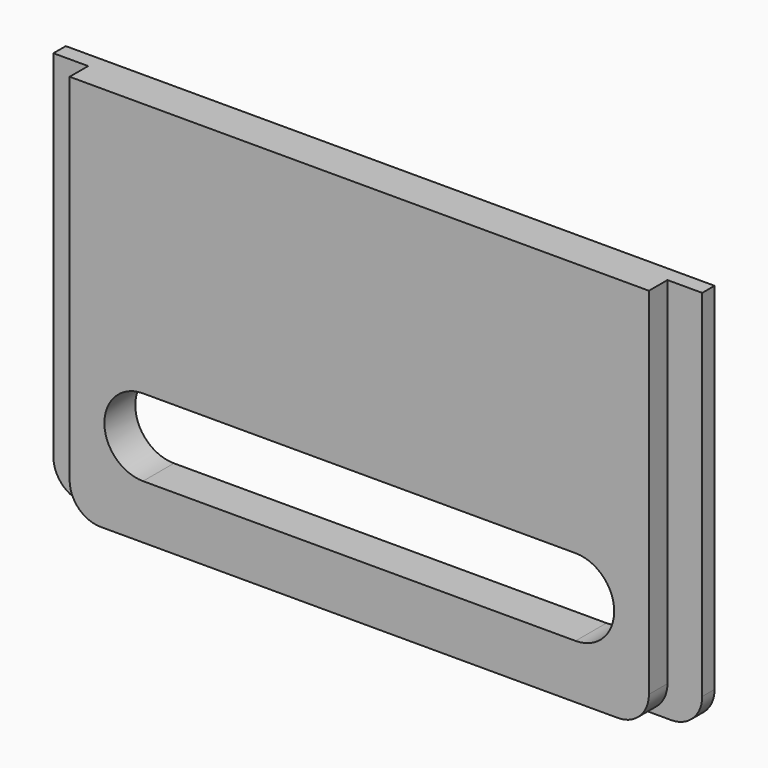
from build123d import *

# Parameters (mm, degrees)
F1_DEPTH = 1
F3_DEPTH = 1.5
F5_DEPTH = 2.5


with BuildPart() as f1:
    # F0 (on Front) → F1 (new body)
    with BuildSketch(Plane.XZ):
        with BuildLine():
            ThreePointArc((0, 2), (0.5857864376, 0.5857864376), (2, 0))
            Line((2, 0), (40, 0))
            ThreePointArc((40, 0), (41.4142135624, 0.5857864376), (42, 2))
            Line((42, 2), (42, 25))
            Line((42, 25), (0, 25))
            Line((0, 25), (0, 2))
        make_face()
    extrude(amount=F1_DEPTH)

    # F2 (on face) → F3 (join)
    with BuildSketch(Plane.XZ.offset(1)):
        with BuildLine():
            Line((39.75, 25), (2.25, 25))
            Line((2.25, 25), (2.25, 2))
            ThreePointArc((2.25, 2), (2.8357864376, 0.5857864376), (4.25, 0))
            Line((4.25, 0), (37.75, 0))
            ThreePointArc((37.75, 0), (39.1642135624, 0.5857864376), (39.75, 2))
            Line((39.75, 2), (39.75, 25))
        make_face()
    extrude(amount=F3_DEPTH)

    # F4 (on face) → F5 (cut, through all)
    with BuildSketch(Plane.XZ.offset(2.5)):
        with BuildLine():
            Line((35, 8.5), (7, 8.5))
            ThreePointArc((7, 8.5), (4.5, 6), (7, 3.5))
            Line((7, 3.5), (35, 3.5))
            ThreePointArc((35, 3.5), (37.5, 6), (35, 8.5))
        make_face()
    extrude(amount=-F5_DEPTH, mode=Mode.SUBTRACT)


solid = f1.part
